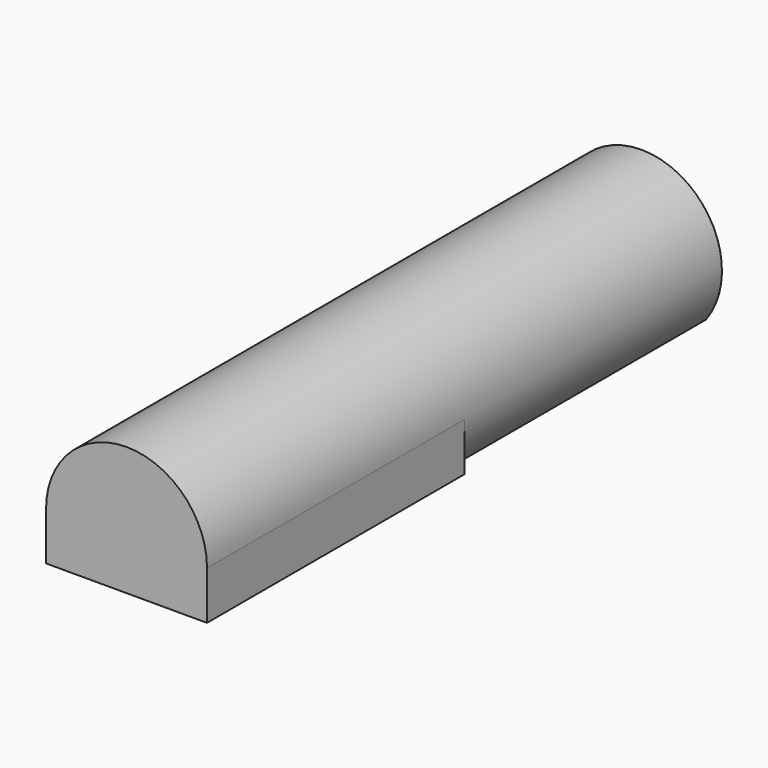
from build123d import *

# Parameters (mm, degrees)
F0_R     = 2.5
F1_DEPTH = 10
F3_DEPTH = 10
F4_DEPTH = 10
F5_W     = 0.5
F5_H     = 10
F6_DEPTH = 1.5


with BuildPart() as f1:
    # F0 (on Front) → F1 (new body)
    with BuildSketch(Plane.XZ):
        with Locations((-22.092283, 13.107383)):
            Circle(F0_R)
    extrude(amount=F1_DEPTH)

    # F2 (on face) → F3 (cut)
    with BuildSketch(Plane.XZ.offset(10)):
        with BuildLine():
            Line((-20.092283, 11.607383), (-24.092283, 11.607383))
            ThreePointArc((-24.092283, 11.607383), (-22.092283, 10.607383), (-20.092283, 11.607383))
        make_face()
    extrude(amount=-F3_DEPTH, mode=Mode.SUBTRACT)

    # F1_face (on face) → F4 (join)
    with BuildSketch(Plane(origin=(-22.092283, -10, 13.107383), x_dir=(1, 0, 0), z_dir=(0, -1, 0))):
        with BuildLine():
            Line((-2, -1.5), (2, -1.5))
            ThreePointArc((2, -1.5), (0, 2.5), (-2, -1.5))
        make_face()
    extrude(amount=F4_DEPTH)

    # F5 (on face) → F6 (join)
    with BuildSketch(Plane(origin=(0, 0, 11.607383), x_dir=(1, 0, 0), z_dir=(0, 0, -1))):
        with Locations((-24.342283, 15)):
            Rectangle(F5_W, F5_H)
        with Locations((-19.842283, 15)):
            Rectangle(F5_W, F5_H)
    extrude(amount=-F6_DEPTH)


solid = f1.part
